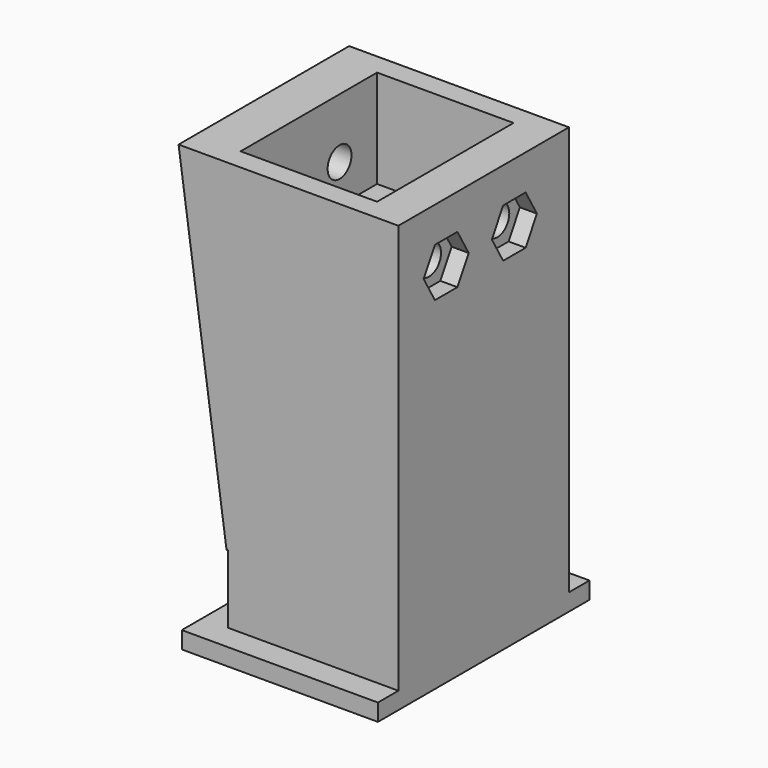
from build123d import *

# Parameters (mm, degrees)
PRISM008_DEPTH            = 10
PRISM008_ROLL_ANGLE       = -90
CYLINDER111_R             = 3
CYLINDER111_DEPTH         = 32
CYLINDER111_ROLL_ANGLE    = -90
CYLINDER112_R             = 3
CYLINDER112_DEPTH         = 32
CYLINDER112_ROLL_ANGLE    = -90
BOX117_W                  = 20
BOX117_H                  = 16
BOX117_DEPTH              = 28
CYLINDER113_R             = 1.75
CYLINDER113_DEPTH         = 32
CYLINDER113_ROLL_ANGLE    = -90
CYLINDER114_R             = 1.75
CYLINDER114_DEPTH         = 32
CYLINDER114_ROLL_ANGLE    = -90
PRISM007_DEPTH            = 10
PRISM007_ROLL_ANGLE       = -90
FUSION079_ROLL_ANGLE      = 90
FUSION079_PLACEMENT_ANGLE = 180
BOX115_W                  = 2
BOX115_H                  = 23
BOX115_DEPTH              = 3
BOX110_W                  = 50
BOX110_H                  = 25
BOX110_DEPTH              = 20
BOX114_W                  = 2
BOX114_H                  = 25
BOX114_DEPTH              = 3
BOX113_W                  = 10
BOX113_H                  = 25
BOX113_DEPTH              = 10
BOX112_W                  = 30
BOX112_H                  = 30
BOX112_DEPTH              = 30
BOX112_PITCH_ANGLE        = 90
BOX111_W                  = 50
BOX111_H                  = 25
BOX111_DEPTH              = 6
BOX111_PITCH_ANGLE        = 8
FUSION077_PLACEMENT_ANGLE = -90
BOX116_W                  = 2
BOX116_H                  = 23
BOX116_DEPTH              = 3
CUT138_ROLL_ANGLE         = 90
CUT138_PLACEMENT_ANGLE    = -90


with BuildPart() as prisma008:
    # Prism008 → Prism008 (new body)
    with BuildSketch(Plane.XY):
        Polygon((3.3, 0), (1.65, 2.857884), (-1.65, 2.857884), (-3.3, 0), (-1.65, -2.857884), (1.65, -2.857884), align=None)
    extrude(amount=PRISM008_DEPTH)


with BuildPart() as prisma008_1:
    # Prism008 roll: moved
    add(prisma008.part.rotate(Axis((0, 0, 0), (1, 0, 0)), PRISM008_ROLL_ANGLE))


with BuildPart() as prisma008_2:
    # Prism008 placement: moved
    add(prisma008_1.part.moved(Location((8, 85, 84))))


with BuildPart() as cilindro038:
    # Cylinder111 → Cylinder111 (new body)
    with BuildSketch(Plane.XY):
        Circle(CYLINDER111_R)
    extrude(amount=CYLINDER111_DEPTH)


with BuildPart() as cilindro038_1:
    # Cylinder111 roll: moved
    add(cilindro038.part.rotate(Axis((0, 0, 0), (1, 0, 0)), CYLINDER111_ROLL_ANGLE))


with BuildPart() as cilindro038_2:
    # Cylinder111 placement: moved
    add(cilindro038_1.part.moved(Location((18, 116, 84))))


with BuildPart() as cilindro039:
    # Cylinder112 → Cylinder112 (new body)
    with BuildSketch(Plane.XY):
        Circle(CYLINDER112_R)
    extrude(amount=CYLINDER112_DEPTH)


with BuildPart() as cilindro039_1:
    # Cylinder112 roll: moved
    add(cilindro039.part.rotate(Axis((0, 0, 0), (1, 0, 0)), CYLINDER112_ROLL_ANGLE))


with BuildPart() as cilindro039_2:
    # Cylinder112 placement: moved
    add(cilindro039_1.part.moved(Location((8, 116, 84))))


with BuildPart() as cubo055:
    # Box117 → Box117 (new body)
    with BuildSketch(Plane(origin=(3.5, 97.5, 79.5), x_dir=(1, 0, 0), z_dir=(0, 0, 1))):
        with Locations((10, 8)):
            Rectangle(BOX117_W, BOX117_H)
    extrude(amount=BOX117_DEPTH)


with BuildPart() as cilindro040:
    # Cylinder113 → Cylinder113 (new body)
    with BuildSketch(Plane.XY):
        Circle(CYLINDER113_R)
    extrude(amount=CYLINDER113_DEPTH)


with BuildPart() as cilindro040_1:
    # Cylinder113 roll: moved
    add(cilindro040.part.rotate(Axis((0, 0, 0), (1, 0, 0)), CYLINDER113_ROLL_ANGLE))


with BuildPart() as cilindro040_2:
    # Cylinder113 placement: moved
    add(cilindro040_1.part.moved(Location((18, 90, 84))))


with BuildPart() as cilindro041:
    # Cylinder114 → Cylinder114 (new body)
    with BuildSketch(Plane.XY):
        Circle(CYLINDER114_R)
    extrude(amount=CYLINDER114_DEPTH)


with BuildPart() as cilindro041_1:
    # Cylinder114 roll: moved
    add(cilindro041.part.rotate(Axis((0, 0, 0), (1, 0, 0)), CYLINDER114_ROLL_ANGLE))


with BuildPart() as cilindro041_2:
    # Cylinder114 placement: moved
    add(cilindro041_1.part.moved(Location((8, 90, 84))))


with BuildPart() as arm_positive_cut003:
    # Prism007 → Prism007 (new body)
    with BuildSketch(Plane.XY):
        Polygon((3.3, 0), (1.65, 2.857884), (-1.65, 2.857884), (-3.3, 0), (-1.65, -2.857884), (1.65, -2.857884), align=None)
    extrude(amount=PRISM007_DEPTH)


with BuildPart() as arm_positive_cut003_1:
    # Prism007 roll: moved
    add(arm_positive_cut003.part.rotate(Axis((0, 0, 0), (1, 0, 0)), PRISM007_ROLL_ANGLE))


with BuildPart() as arm_positive_cut003_2:
    # Prism007 placement: moved
    add(arm_positive_cut003_1.part.moved(Location((18, 85, 84))))

    # Fusion079: union Prisma008, Cilindro038, Cilindro039, Cubo055, Cilindro040, Cilindro041
    add(prisma008_2.part)
    add(cilindro038_2.part)
    add(cilindro039_2.part)
    add(cubo055.part)
    add(cilindro040_2.part)
    add(cilindro041_2.part)


with BuildPart() as arm_positive_cut003_3:
    # Fusion079 roll: moved
    add(arm_positive_cut003_2.part.rotate(Axis((0, 0, 0), (1, 0, 0)), FUSION079_ROLL_ANGLE))


with BuildPart() as arm_positive_cut003_4:
    # Fusion079 placement: moved
    add(arm_positive_cut003_3.part.moved(Location((26, -91, -93))).rotate(Axis((26, -91, -93), (0, 0, 1)), FUSION079_PLACEMENT_ANGLE))


with BuildPart() as cubo053:
    # Box115 → Box115 (new body)
    with BuildSketch(Plane(origin=(0, -48, 0), x_dir=(0, -1, 0), z_dir=(-1, 0, 0))):
        with Locations((1, 11.5)):
            Rectangle(BOX115_W, BOX115_H)
    extrude(amount=BOX115_DEPTH)


with BuildPart() as cubo048:
    # Box110 → Box110 (new body)
    with BuildSketch(Plane.XY):
        with Locations((25, 12.5)):
            Rectangle(BOX110_W, BOX110_H)
    extrude(amount=BOX110_DEPTH)


with BuildPart() as cubo052:
    # Box114 → Box114 (new body)
    with BuildSketch(Plane(origin=(48, 0, 20), x_dir=(1, 0, 0), z_dir=(0, 0, 1))):
        with Locations((1, 12.5)):
            Rectangle(BOX114_W, BOX114_H)
    extrude(amount=BOX114_DEPTH)


with BuildPart() as cubo051:
    # Box113 → Box113 (new body)
    with BuildSketch(Plane(origin=(-10, 0, 16), x_dir=(1, 0, 0), z_dir=(0, 0, 1))):
        with Locations((5, 12.5)):
            Rectangle(BOX113_W, BOX113_H)
    extrude(amount=BOX113_DEPTH)


with BuildPart() as cubo050:
    # Box112 → Box112 (new body)
    with BuildSketch(Plane.XY):
        with Locations((15, 15)):
            Rectangle(BOX112_W, BOX112_H)
    extrude(amount=BOX112_DEPTH)


with BuildPart() as cubo050_1:
    # Box112 pitch: moved
    add(cubo050.part.rotate(Axis((0, 0, 0), (0, 1, 0)), BOX112_PITCH_ANGLE))


with BuildPart() as cubo050_2:
    # Box112 placement: moved
    add(cubo050_1.part.moved(Location((40, 0, 30))))


with BuildPart() as brazo002:
    # Box111 → Box111 (new body)
    with BuildSketch(Plane.XY):
        with Locations((25, 12.5)):
            Rectangle(BOX111_W, BOX111_H)
    extrude(amount=BOX111_DEPTH)


with BuildPart() as brazo002_1:
    # Box111 pitch: moved
    add(brazo002.part.rotate(Axis((0, 0, 0), (0, 1, 0)), BOX111_PITCH_ANGLE))


with BuildPart() as brazo002_2:
    # Box111 placement: moved
    add(brazo002_1.part.moved(Location((-2, 0, 20))))

    # Cut136: cut Cubo050
    add(cubo050_2.part, mode=Mode.SUBTRACT)

    # Cut137: cut Cubo051
    add(cubo051.part, mode=Mode.SUBTRACT)

    # Fusion077: union Cubo048, Cubo052
    add(cubo048.part)
    add(cubo052.part)


with BuildPart() as brazo002_3:
    # Fusion077 placement: moved
    add(brazo002_2.part.rotate(Axis((0, 0, 0), (0, 0, 1)), FUSION077_PLACEMENT_ANGLE))


with BuildPart() as cut138:
    # Box116 → Box116 (new body)
    with BuildSketch(Plane(origin=(28, -48, 0), x_dir=(0, -1, 0), z_dir=(-1, 0, 0))):
        with Locations((1, 11.5)):
            Rectangle(BOX116_W, BOX116_H)
    extrude(amount=BOX116_DEPTH)

    # Fusion078: union Cubo053, brazo002
    add(cubo053.part)
    add(brazo002_3.part)

    # Cut138: cut arm-positive-cut003
    add(arm_positive_cut003_4.part, mode=Mode.SUBTRACT)


with BuildPart() as cut138_1:
    # Cut138 roll: moved
    add(cut138.part.rotate(Axis((0, 0, 0), (1, 0, 0)), CUT138_ROLL_ANGLE))


with BuildPart() as cut138_2:
    # Cut138 placement: moved
    add(cut138_1.part.moved(Location((-297, 70, 93))).rotate(Axis((-297, 70, 93), (0, 0, 1)), CUT138_PLACEMENT_ANGLE))


solid = cut138_2.part
